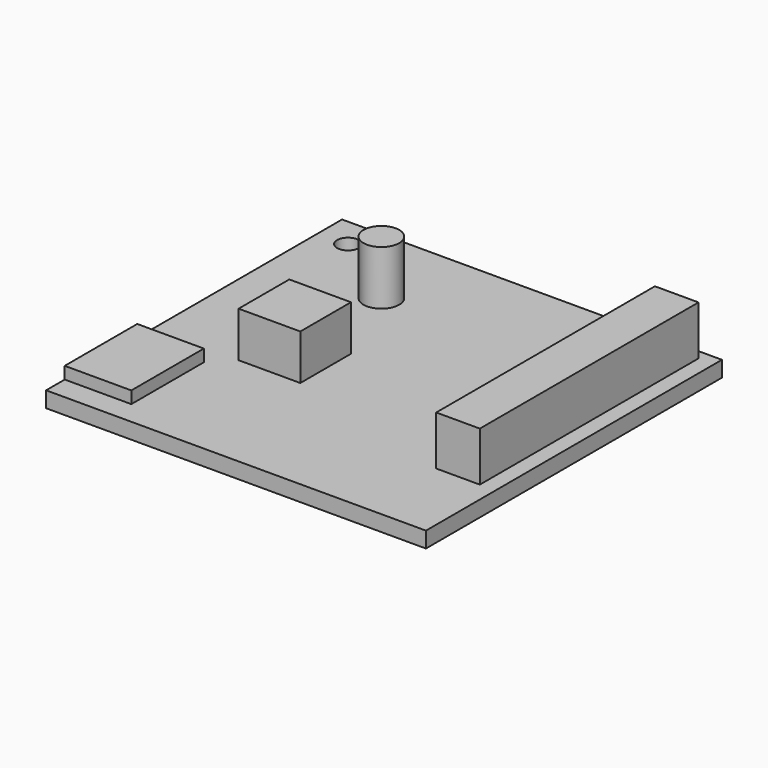
from build123d import *

# Parameters (mm, degrees)
F0_W     = 6.25431
F0_H     = 6.418898
F0_R     = 1.811147
F0_W_2   = 4.418919
F0_H_2   = 27.703949
F1_DEPTH = 1.6
F2_DEPTH = 5
F3_DEPTH = 4.6
F4_DEPTH = 5.5
F5_D     = 2.2
F0_W_3   = 6.75
F0_H_3   = 9.19
F6_DEPTH = 1.225


with BuildPart() as f1:
    # F0 (on Top) → F1 (new body)
    with BuildSketch(Plane.XY):
        Polygon((19.25, -18.75), (19.25, 18.75), (-19.25, 18.75), (-19.25, -7.2), (-12.5, -7.2), (-12.5, -16.39), (-19.25, -16.39), (-19.25, -18.75), align=None)
        with Locations((-7.443636, -1.997309)):
            Rectangle(F0_W, F0_H, mode=Mode.SUBTRACT)
        with Locations((-8.395254, 10.16267)):
            Circle(F0_R, mode=Mode.SUBTRACT)
        with Locations((15.44768, 3.921963)):
            Rectangle(F0_W_2, F0_H_2, mode=Mode.SUBTRACT)
    extrude(amount=-F1_DEPTH)

    # F0 (on Top) → F2 (join)
    with BuildSketch(Plane.XY):
        with Locations((15.44768, 3.921963)):
            Rectangle(F0_W_2, F0_H_2)
    extrude(amount=F2_DEPTH)

    # F0 (on Top) → F3 (join)
    with BuildSketch(Plane.XY):
        with Locations((-7.443636, -1.997309)):
            Rectangle(F0_W, F0_H)
    extrude(amount=F3_DEPTH)

    # F0 (on Top) → F4 (join)
    with BuildSketch(Plane.XY):
        with Locations((-8.395254, 10.16267)):
            Circle(F0_R)
    extrude(amount=F4_DEPTH)

    # F5 (through all)
    with Locations(Plane.XY):
        with Locations((-16.25, 15.75)):
            Hole(F5_D / 2)

    # F0 (on Top) → F6 (join, symmetric)
    with BuildSketch(Plane.XY):
        with Locations((-15.875, -11.795)):
            Rectangle(F0_W_3, F0_H_3)
    extrude(amount=F6_DEPTH, both=True)


solid = f1.part
